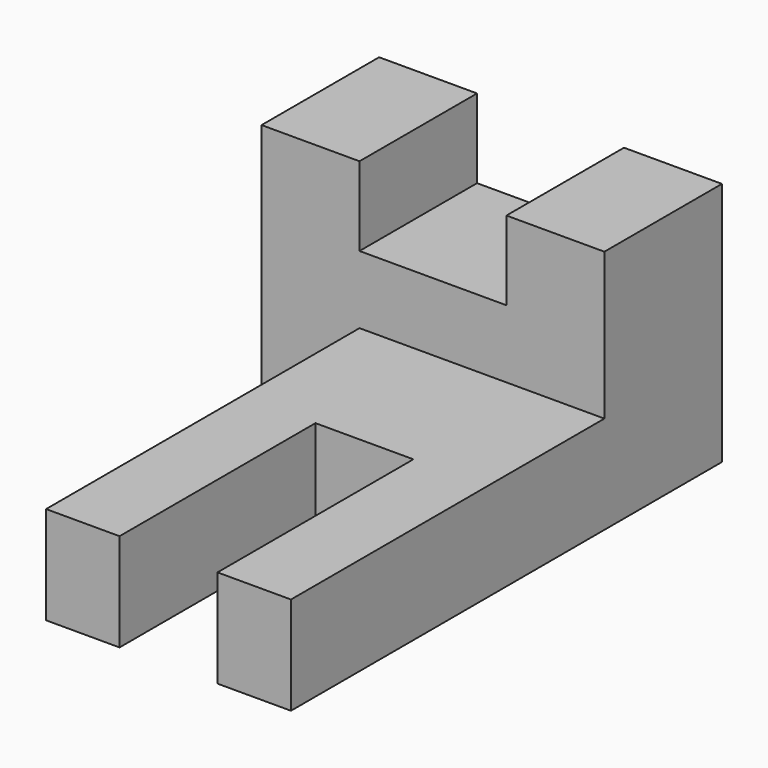
from build123d import *

# Parameters (mm, degrees)
F0_W     = 44.45
F0_H     = 31.75
F1_DEPTH = 19.05
F2_W     = 19.05
F2_H     = 10.2438246012
F3_DEPTH = 25.4
F4_W     = 31.75
F4_H     = 12.7
F5_DEPTH = 50.8
F7_W     = 12.7
F7_H     = 31.75
F8_DEPTH = 25.4
F6_W     = 12.7
F6_H     = 12.7
F9_DEPTH = 25.4


with BuildPart() as f1:
    # F0 (on Front) → F1 (new body)
    with BuildSketch(Plane.XZ):
        with Locations((-22.225, 15.875)):
            Rectangle(F0_W, F0_H)
    extrude(amount=F1_DEPTH)

    # F2 (on face) → F3 (cut)
    with BuildSketch(Plane.XZ.offset(19.05)):
        with Locations((-22.225, 26.6280876994)):
            Rectangle(F2_W, F2_H)
    extrude(amount=-F3_DEPTH, mode=Mode.SUBTRACT)

    # F4 (on face) → F5 (join)
    with BuildSketch(Plane.XZ.offset(19.05)):
        with Locations((-15.875, 6.35)):
            Rectangle(F4_W, F4_H)
    extrude(amount=F5_DEPTH)

    # F7 (on face) → F8 (cut)
    with BuildSketch(Plane.XY.offset(12.7)):
        with Locations((-15.875, -53.975)):
            Rectangle(F7_W, F7_H)
    extrude(amount=-F8_DEPTH, mode=Mode.SUBTRACT)

    # F6 (on face) → F9 (cut)
    with BuildSketch(Plane.XZ.offset(69.85)):
        with Locations((-15.875, 6.35)):
            Rectangle(F6_W, F6_H)
    extrude(amount=-F9_DEPTH, mode=Mode.SUBTRACT)


solid = f1.part
